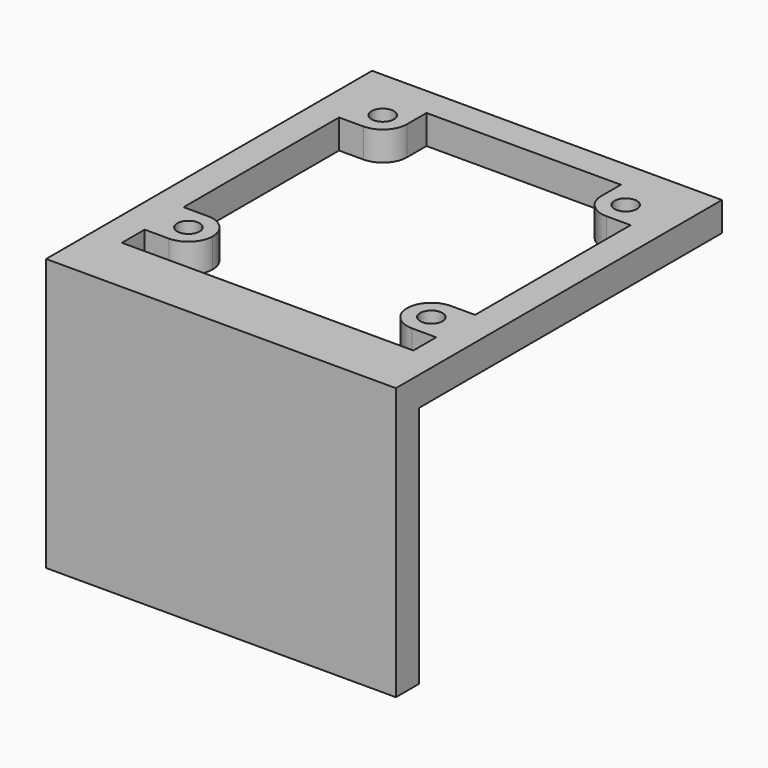
from build123d import *

# Parameters (mm, degrees)
F0_W     = 36
F0_H     = 38.936216
F0_R     = 1.15
F0_H_2   = 3
F1_DEPTH = 3
F2_DEPTH = 25


with BuildPart() as f1:
    # F0 (on Top) → F1 (new body)
    with BuildSketch(Plane.XY):
        with Locations((0, -1.468108)):
            Rectangle(F0_W, F0_H)
        with Locations((-12.5, -12.5)):
            Circle(F0_R, mode=Mode.SUBTRACT)
        with Locations((12.5, -12.5)):
            Circle(F0_R, mode=Mode.SUBTRACT)
        with Locations((-12.5, 12.5)):
            Circle(F0_R, mode=Mode.SUBTRACT)
        with BuildLine():
            Line((-15, 10), (-12.5, 10))
            ThreePointArc((-12.5, 10), (-10.732233, 10.732233), (-10, 12.5))
            Line((-10, 12.5), (-10, 15))
            Line((-10, 15), (10, 15))
            Line((10, 15), (10, 12.5))
            ThreePointArc((10, 12.5), (10.732233, 10.732233), (12.5, 10))
            Line((12.5, 10), (15, 10))
            Line((15, 10), (15, -10))
            Line((15, -10), (12.5, -10))
            ThreePointArc((12.5, -10), (10.732233, -10.732233), (10, -12.5))
            ThreePointArc((10, -12.5), (10.732233, -14.267767), (12.5, -15))
            Line((12.5, -15), (15, -15))
            Line((15, -15), (15, -17.936216))
            Line((15, -17.936216), (-15, -17.936216))
            Line((-15, -17.936216), (-15, -15))
            Line((-15, -15), (-12.5, -15))
            ThreePointArc((-12.5, -15), (-10.732233, -14.267767), (-10, -12.5))
            ThreePointArc((-10, -12.5), (-10.732233, -10.732233), (-12.5, -10))
            Line((-12.5, -10), (-15, -10))
            Line((-15, -10), (-15, 10))
        make_face(mode=Mode.SUBTRACT)
        with Locations((12.5, 12.5)):
            Circle(F0_R, mode=Mode.SUBTRACT)
        with Locations((0, -22.436216)):
            Rectangle(F0_W, F0_H_2)
    extrude(amount=F1_DEPTH)

    # F0 (on Top) → F2 (join)
    with BuildSketch(Plane.XY):
        with Locations((0, -22.436216)):
            Rectangle(F0_W, F0_H_2)
    extrude(amount=-F2_DEPTH)


solid = f1.part
